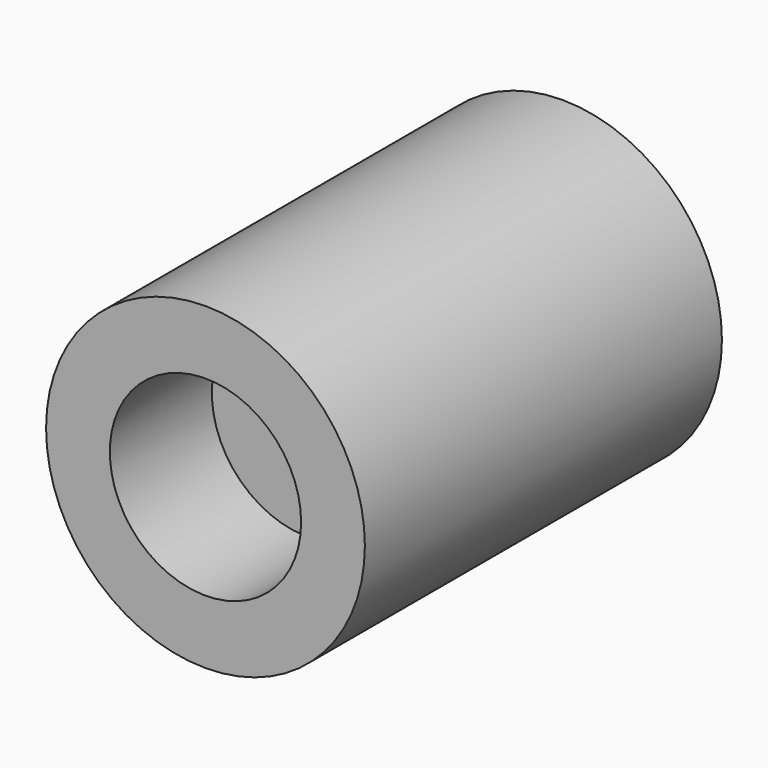
from build123d import *

# Parameters (mm, degrees)
F0_R     = 50
F1_DEPTH = 70
F2_R     = 30
F3_DEPTH = 40
F4_R     = 10
F5_DEPTH = 80


with BuildPart() as f1:
    # F0 (on Front) → F1 (new body, symmetric)
    with BuildSketch(Plane.XZ):
        Circle(F0_R)
    extrude(amount=F1_DEPTH, both=True)

    # F2 (on face) → F3 (cut)
    with BuildSketch(Plane.XZ.offset(70)):
        Circle(F2_R)
    extrude(amount=-F3_DEPTH, mode=Mode.SUBTRACT)

    # F4 (on face) → F5 (cut)
    with BuildSketch(Plane.XZ.offset(30)):
        Circle(F4_R)
    extrude(amount=-F5_DEPTH, mode=Mode.SUBTRACT)


solid = f1.part
